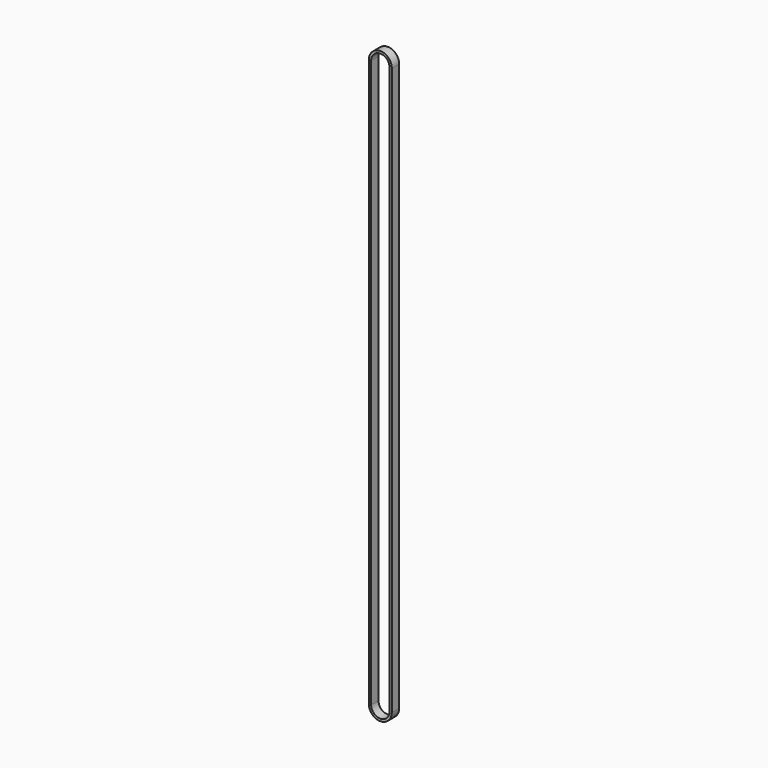
from build123d import *

# Parameters (mm, degrees)
PAD_DEPTH = 6


with BuildPart() as part:
    # Sketch → Pad (new body)
    with BuildSketch(Plane.XZ):
        with BuildLine():
            ThreePointArc((7.5, 370.6), (0, 378.1), (-7.5, 370.6))
            Line((-7.5, 370.6), (-7.5, 0))
            ThreePointArc((-7.5, 0), (0, -7.5), (7.5, 0))
            Line((7.5, 0), (7.5, 370.6))
        make_face()
        with BuildLine():
            ThreePointArc((-6, 0), (0, -6), (6, 0))
            Line((6, 370.6), (6, 0))
            ThreePointArc((6, 370.6), (0, 376.6), (-6, 370.600001))
            Line((-6, 0), (-6, 370.600001))
        make_face(mode=Mode.SUBTRACT)
    extrude(amount=PAD_DEPTH)


with BuildPart() as part_1:
    # Body placement: moved
    add(part.part.moved(Location((185, -184.75, -87))))


solid = part_1.part
